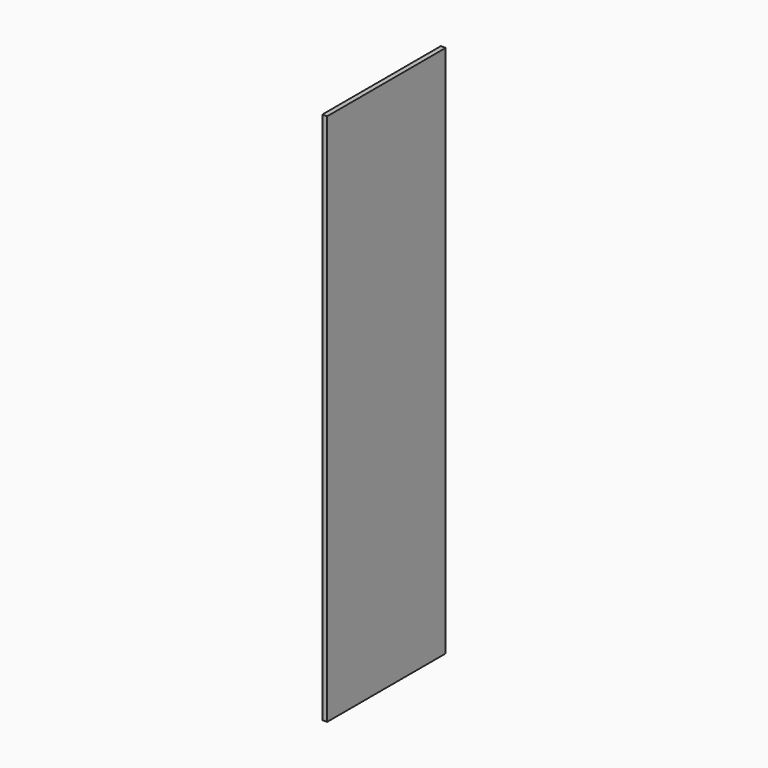
from build123d import *

# Parameters (mm, degrees)
F0_W      = 584.2
F0_H      = 2101.85
F1_DEPTH  = 28.575
F1_FACE_W = 584.2
F1_FACE_H = 2101.85
F2_DEPTH  = 9.525


with BuildPart() as f1:
    # F0 (on Right) → F1 (new body)
    with BuildSketch(Plane.YZ):
        Rectangle(F0_W, F0_H)
    extrude(amount=F1_DEPTH)

    # F1_face (on face) → F2 (cut)
    with BuildSketch(Plane.YZ.offset(28.575)):
        Rectangle(F1_FACE_W, F1_FACE_H)
    extrude(amount=-F2_DEPTH, mode=Mode.SUBTRACT)


solid = f1.part
